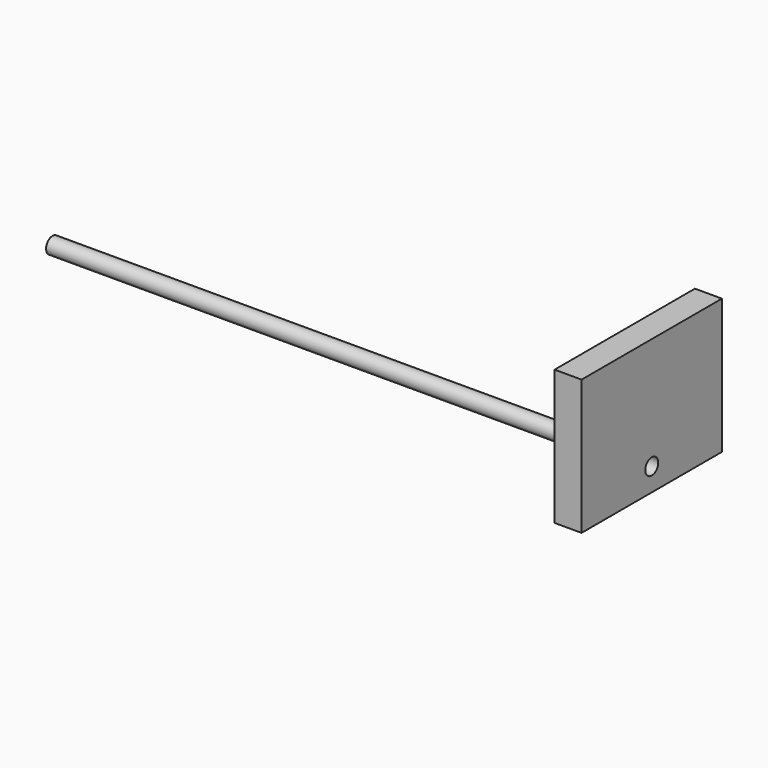
from build123d import *

# Parameters (mm, degrees)
F0_R     = 3
F1_DEPTH = 212
F2_W     = 65
F2_H     = 50
F2_R     = 3
F3_DEPTH = 10


with BuildPart() as f1:
    # F0 (on Right) → F1 (new body)
    with BuildSketch(Plane.YZ):
        with Locations((0, -20)):
            Circle(F0_R)
    extrude(amount=F1_DEPTH)

    # F2 (on face) → F3 (join)
    with BuildSketch(Plane.YZ.offset(212)):
        with Locations((0, -3.5)):
            Rectangle(F2_W, F2_H)
        with Locations((0, -20)):
            Circle(F2_R, mode=Mode.SUBTRACT)
    extrude(amount=F3_DEPTH)


solid = f1.part
